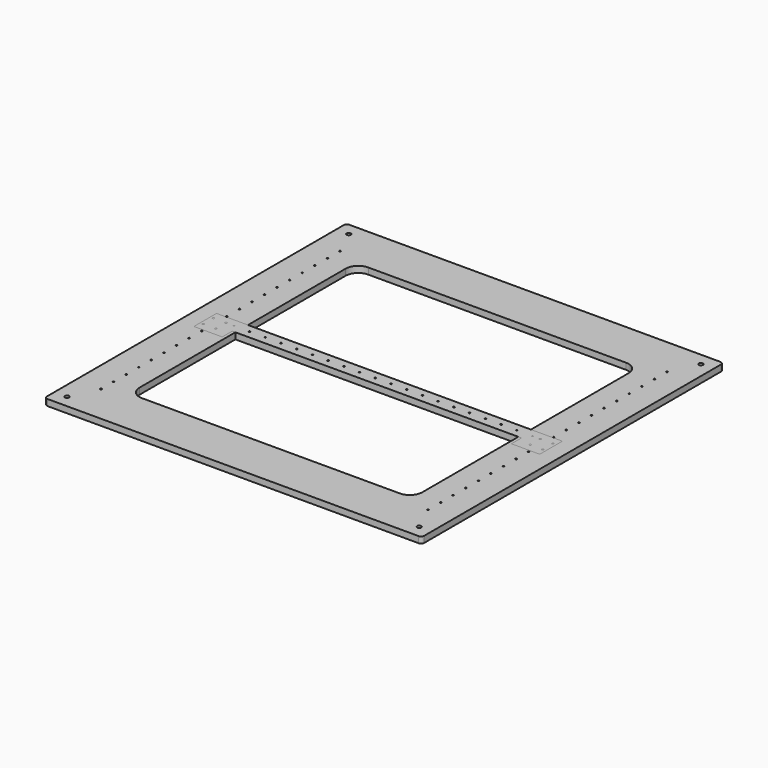
from build123d import *

# Parameters (mm, degrees)
F1_DEPTH = 10
F2_D     = 2.4
F2_DEPTH = 20
F2_TIP   = 0.7210327428
F3_W     = 460
F3_H     = 25
F3_W_2   = 45
F3_H_2   = 20
F4_DEPTH = 10
F6_D     = 2.4
F6_DEPTH = 20
F6_TIP   = 0.7210327428
F8_D     = 3.3
F8_DEPTH = 20
F8_TIP   = 0.9914200214
F9_D     = 6.6
F9_DEPTH = 20
F9_TIP   = 1.9828400428


with BuildPart() as f1:
    # F0 (on Top) → F1 (new body)
    with BuildSketch(Plane.XY):
        with BuildLine():
            Line((295, 300), (-295, 300))
            ThreePointArc((-295, 300), (-298.5355339059, 298.5355339059), (-300, 295))
            Line((-300, 295), (-300, -295))
            ThreePointArc((-300, -295), (-298.5355339059, -298.5355339059), (-295, -300))
            Line((-295, -300), (295, -300))
            ThreePointArc((295, -300), (298.5355339059, -298.5355339059), (300, -295))
            Line((300, -295), (300, 295))
            ThreePointArc((300, 295), (298.5355339059, 298.5355339059), (295, 300))
        make_face()
        with BuildLine():
            Line((205, -225), (-205, -225))
            ThreePointArc((-205, -225), (-219.1421356237, -219.1421356237), (-225, -205))
            Line((-225, -205), (-225, 205))
            ThreePointArc((-225, 205), (-219.1421356237, 219.1421356237), (-205, 225))
            Line((-205, 225), (205, 225))
            ThreePointArc((205, 225), (219.1421356237, 219.1421356237), (225, 205))
            Line((225, 205), (225, -205))
            ThreePointArc((225, -205), (219.1421356237, -219.1421356237), (205, -225))
        make_face(mode=Mode.SUBTRACT)
    extrude(amount=F1_DEPTH)

    # F2
    with Locations(Plane(origin=(0, 0, 0), x_dir=(1, 0, 0), z_dir=(0, 0, -1))):
        with Locations((-260, -237.5), (-260, -212.5), (-260, -187.5), (-260, -162.5), (-260, -137.5), (-260, -112.5), (-260, -87.5), (-260, -62.5), (-260, -37.5), (-260, -12.5), (-260, 12.5), (-260, 37.5), (-260, 62.5), (-260, 87.5), (-260, 112.5), (-260, 137.5), (-260, 162.5), (-260, 187.5), (-260, 212.5), (-260, 237.5), (260, -187.5), (260, 187.5), (260, -62.5), (260, 237.5), (260, -12.5), (260, 37.5), (260, -137.5), (260, 137.5), (260, -237.5), (260, -112.5), (260, 62.5), (260, 12.5), (260, -162.5), (260, 212.5), (260, -37.5), (260, -87.5), (260, 162.5), (260, -212.5), (260, 112.5), (260, 87.5)):
            Hole(F2_D / 2, depth=F2_DEPTH)
            with Locations((0, 0, -(F2_DEPTH + F2_TIP / 2))):  # 118° drill point
                Cone(0, F2_D / 2, F2_TIP, mode=Mode.SUBTRACT)

    # F9
    with Locations(Plane(origin=(0, 0, 0), x_dir=(1, 0, 0), z_dir=(0, 0, -1))):
        with Locations((-280, -280), (-280, 280), (280, 280), (280, -280)):
            Hole(F9_D / 2, depth=F9_DEPTH)
            with Locations((0, 0, -(F9_DEPTH + F9_TIP / 2))):  # 118° drill point
                Cone(0, F9_D / 2, F9_TIP, mode=Mode.SUBTRACT)


with BuildPart() as f4:
    # F3 (on Top) → F4 (new body)
    with BuildSketch(Plane.XY):
        with Locations((0, -1.6755077243)):
            Rectangle(F3_W, F3_H)
        with Locations((252.5, -1.6755077243)):
            Rectangle(F3_W_2, F3_H)
        with Locations((252.5, -24.1755077243)):
            Rectangle(F3_W_2, F3_H_2)
        with Locations((-252.5, -1.6755077243)):
            Rectangle(F3_W_2, F3_H)
        with Locations((-252.5, -24.1755077243)):
            Rectangle(F3_W_2, F3_H_2)
    extrude(amount=F4_DEPTH)

    # F6
    with Locations(Plane(origin=(0, 0, 0), x_dir=(1, 0, 0), z_dir=(0, 0, -1))):
        with Locations((-12.5, 1.6755077243), (12.5, 1.6755077243), (37.5, 1.6755077243), (237.5, 1.6755077243), (-137.5, 1.6755077243), (-162.5, 1.6755077243), (-87.5, 1.6755077243), (-112.5, 1.6755077243), (-37.5, 1.6755077243), (-62.5, 1.6755077243), (87.5, 1.6755077243), (62.5, 1.6755077243), (137.5, 1.6755077243), (112.5, 1.6755077243), (187.5, 1.6755077243), (-237.5, 1.6755077243), (162.5, 1.6755077243), (-187.5, 1.6755077243), (212.5, 1.6755077243), (-212.5, 1.6755077243)):
            Hole(F6_D / 2, depth=F6_DEPTH)
            with Locations((0, 0, -(F6_DEPTH + F6_TIP / 2))):  # 118° drill point
                Cone(0, F6_D / 2, F6_TIP, mode=Mode.SUBTRACT)

    # F8
    with Locations(Plane(origin=(0, 0, 0), x_dir=(1, 0, 0), z_dir=(0, 0, -1))):
        with Locations((-270, 21.6755077243), (-270, 1.6755077243), (-250, 21.6755077243), (250, 21.6755077243), (250, 1.6755077243), (270, 1.6755077243), (270, 21.6755077243), (-250, 1.6755077243)):
            Hole(F8_D / 2, depth=F8_DEPTH)
            with Locations((0, 0, -(F8_DEPTH + F8_TIP / 2))):  # 118° drill point
                Cone(0, F8_D / 2, F8_TIP, mode=Mode.SUBTRACT)


solid = Compound([f1.part, f4.part])
